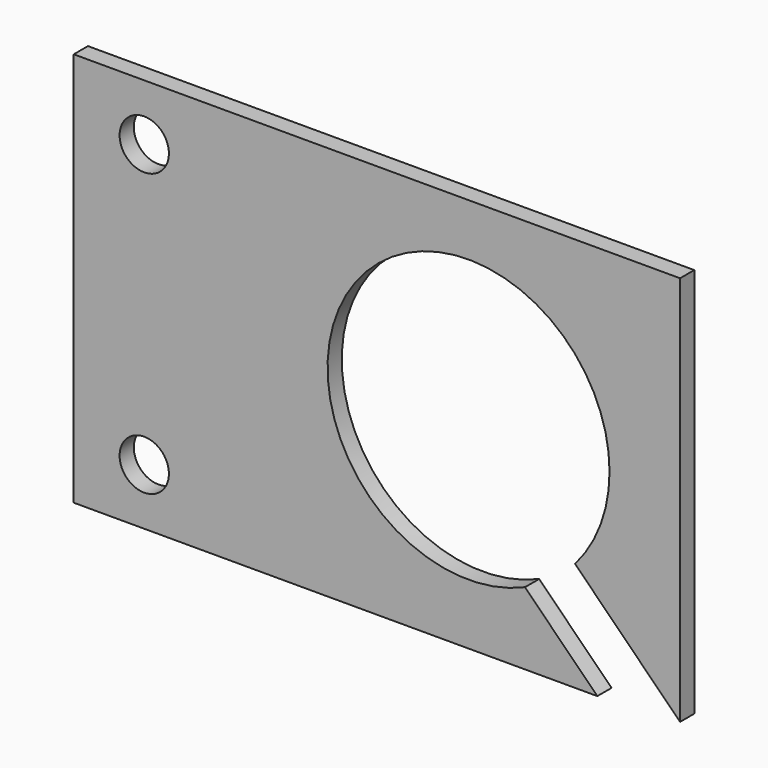
from build123d import *

# Parameters (mm, degrees)
SKETCH_R  = 2.775
PAD_DEPTH = 2


with BuildPart() as part:
    # Sketch → Pad (new body)
    with BuildSketch(Plane.XZ):
        with BuildLine():
            Line((0, 0), (58.956405, 0))
            Line((58.956405, 0), (50.807402, 8.149004))
            ThreePointArc((56.447133, 12.2955), (35.051339, 35.487738), (50.807402, 8.149004))
            Line((68.27, 0.472633), (56.447133, 12.2955))
            Line((68.27, 0.472633), (68.27, 44.45))
            Line((68.27, 44.45), (0, 44.45))
            Line((0, 44.45), (0, 0))
        make_face()
        with Locations((7.94, 6.35)):
            Circle(SKETCH_R, mode=Mode.SUBTRACT)
        with Locations((7.94, 38.1)):
            Circle(SKETCH_R, mode=Mode.SUBTRACT)
    extrude(amount=PAD_DEPTH)


solid = part.part
